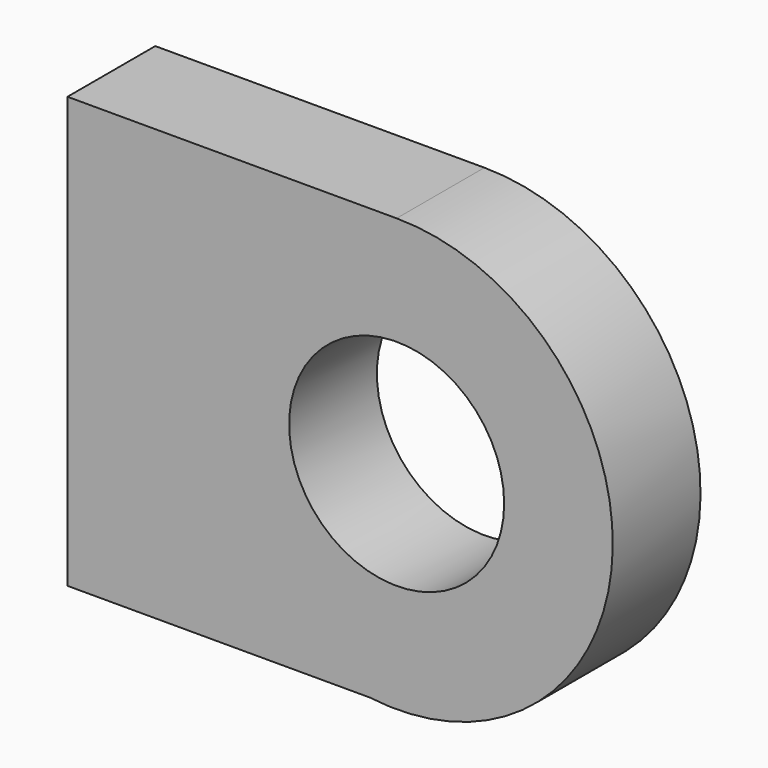
from build123d import *

# Parameters (mm, degrees)
F0_R     = 12.446
F1_DEPTH = 12.7
F3_DEPTH = 17.2212


with BuildPart() as f1:
    # F0 (on Front) → F1 (new body)
    with BuildSketch(Plane.XZ):
        with BuildLine():
            Line((-38.1, -24.823319), (-3.123014, -24.823319))
            ThreePointArc((-3.123014, -24.823319), (24.970032, -1.564569), (0, 25.019))
            Line((0, 25.019), (-38.1, 25.019))
            Line((-38.1, 25.019), (-38.1, -24.823319))
        make_face()
        Circle(F0_R, mode=Mode.SUBTRACT)
    extrude(amount=F1_DEPTH)

    # F2 (on face) → F3 (cut)
    with BuildSketch(Plane(origin=(-38.1, 0, 0), x_dir=(0, -1, 0), z_dir=(-1, 0, 0))):
        with BuildLine():
            ThreePointArc((3.81, 0), (6.35, -2.54), (8.89, 0))
            ThreePointArc((8.89, 0), (6.35, 2.54), (3.81, 0))
        make_face()
    extrude(amount=-F3_DEPTH, mode=Mode.SUBTRACT)


solid = f1.part
